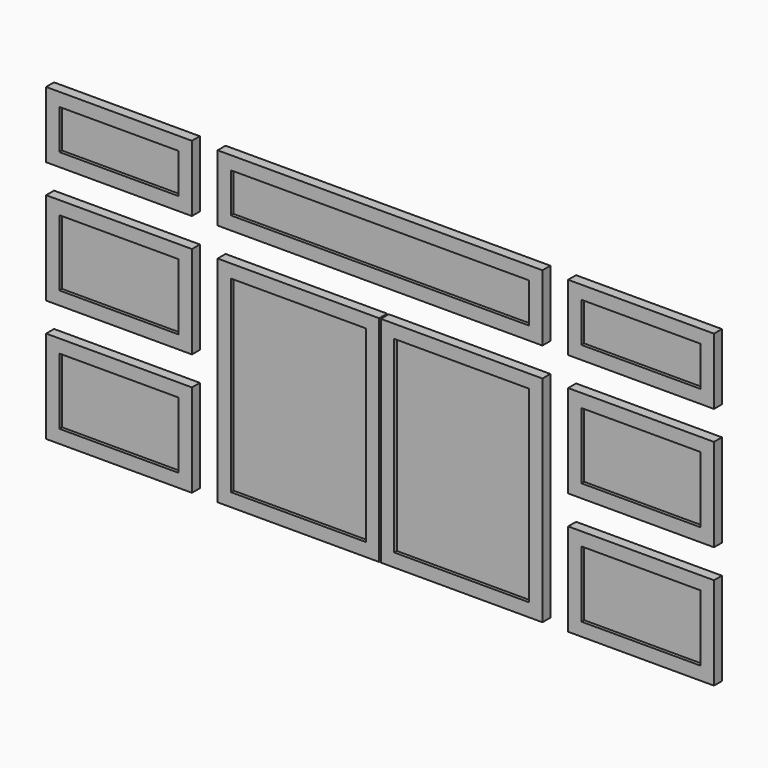
from build123d import *

# Parameters (mm, degrees)
F0_W     = 279.4
F0_H     = 127
F0_W_2   = 622.3
F0_H_2   = 177.8
F0_W_3   = 309.5625
F0_H_3   = 411.1625
F1_DEPTH = 19.05
F2_W     = 228.6
F2_H     = 76.2
F2_H_2   = 127
F2_W_2   = 258.7625
F2_H_3   = 360.3625
F2_W_3   = 571.5
F3_DEPTH = 6.35


with BuildPart() as f1:
    # F0 (on Front) → F1 (new body)
    with BuildSketch(Plane.XZ):
        with Locations((-523.875, 203.2)):
            Rectangle(F0_W, F0_H)
        with Locations((-23.8125, 203.2)):
            Rectangle(F0_W_2, F0_H)
        with Locations((476.25, 203.2)):
            Rectangle(F0_W, F0_H)
        with Locations((476.25, -4.7625)):
            Rectangle(F0_W, F0_H_2)
        with Locations((476.25, -238.125)):
            Rectangle(F0_W, F0_H_2)
        with Locations((132.55625, -121.44375)):
            Rectangle(F0_W_3, F0_H_3)
        with Locations((-180.18125, -121.44375)):
            Rectangle(F0_W_3, F0_H_3)
        with Locations((-523.875, -4.7625)):
            Rectangle(F0_W, F0_H_2)
        with Locations((-523.875, -238.125)):
            Rectangle(F0_W, F0_H_2)
    extrude(amount=F1_DEPTH)

    # F2 (on face) → F3 (cut)
    with BuildSketch(Plane.XZ.offset(19.05)):
        with Locations((-523.875, 203.2)):
            Rectangle(F2_W, F2_H)
        with Locations((-523.875, -4.7625)):
            Rectangle(F2_W, F2_H_2)
        with Locations((-523.875, -238.125)):
            Rectangle(F2_W, F2_H_2)
        with Locations((-180.18125, -121.44375)):
            Rectangle(F2_W_2, F2_H_3)
        with Locations((-23.8125, 203.2)):
            Rectangle(F2_W_3, F2_H)
        with Locations((132.55625, -121.44375)):
            Rectangle(F2_W_2, F2_H_3)
        with Locations((476.25, 203.2)):
            Rectangle(F2_W, F2_H)
        with Locations((476.25, -4.7625)):
            Rectangle(F2_W, F2_H_2)
        with Locations((476.25, -238.125)):
            Rectangle(F2_W, F2_H_2)
    extrude(amount=-F3_DEPTH, mode=Mode.SUBTRACT)


solid = f1.part
